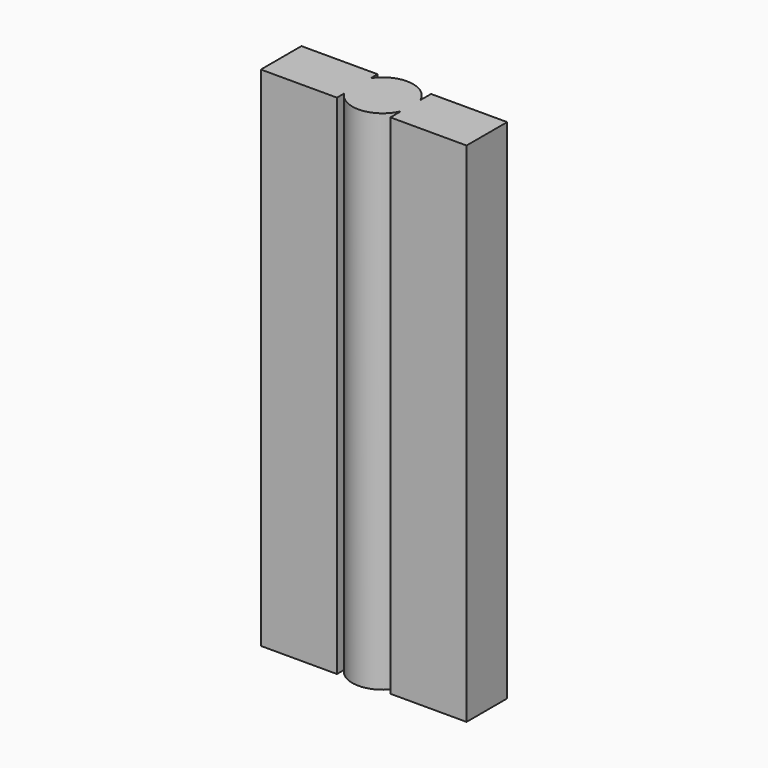
from build123d import *

# Parameters (mm, degrees)
F0_R     = 6
F1_DEPTH = 100
F2_W     = 15
F2_H     = 100
F3_DEPTH = 5
F4_W     = 15
F4_H     = 100
F5_DEPTH = 5


with BuildPart() as f1:
    # F0 (on Top) → F1 (new body)
    with BuildSketch(Plane.XY):
        Circle(F0_R)
    extrude(amount=F1_DEPTH)

    # F2 (on Front) → F3 (join, symmetric)
    with BuildSketch(Plane.XZ):
        with Locations((-12.527533, 50)):
            Rectangle(F2_W, F2_H)
    extrude(amount=F3_DEPTH, both=True)

    # F4 (on Front) → F5 (join, symmetric)
    with BuildSketch(Plane.XZ):
        with Locations((13.012821, 50)):
            Rectangle(F4_W, F4_H)
    extrude(amount=F5_DEPTH, both=True)


solid = f1.part
